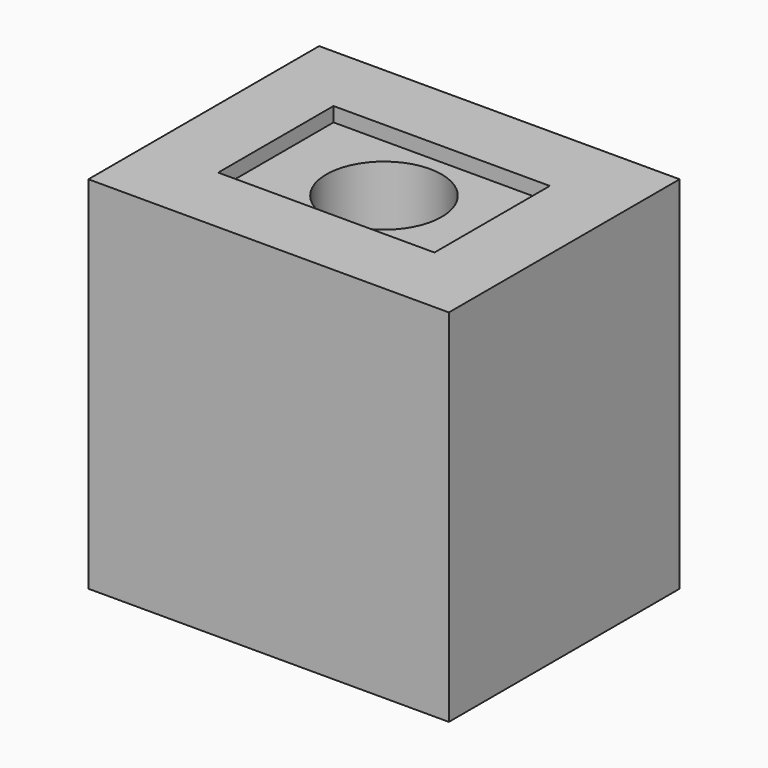
from build123d import *

# Parameters (mm, degrees)
F0_W     = 25
F0_H     = 20
F0_R     = 4
F1_DEPTH = 25
F2_W     = 15
F2_H     = 10
F3_DEPTH = 1


with BuildPart() as f1:
    # F0 (on Top) → F1 (new body)
    with BuildSketch(Plane.XY):
        Rectangle(F0_W, F0_H)
        Circle(F0_R, mode=Mode.SUBTRACT)
    extrude(amount=F1_DEPTH)

    # F2 (on face) → F3 (cut)
    with BuildSketch(Plane.XY.offset(25)):
        Rectangle(F2_W, F2_H)
    extrude(amount=-F3_DEPTH, mode=Mode.SUBTRACT)


solid = f1.part
